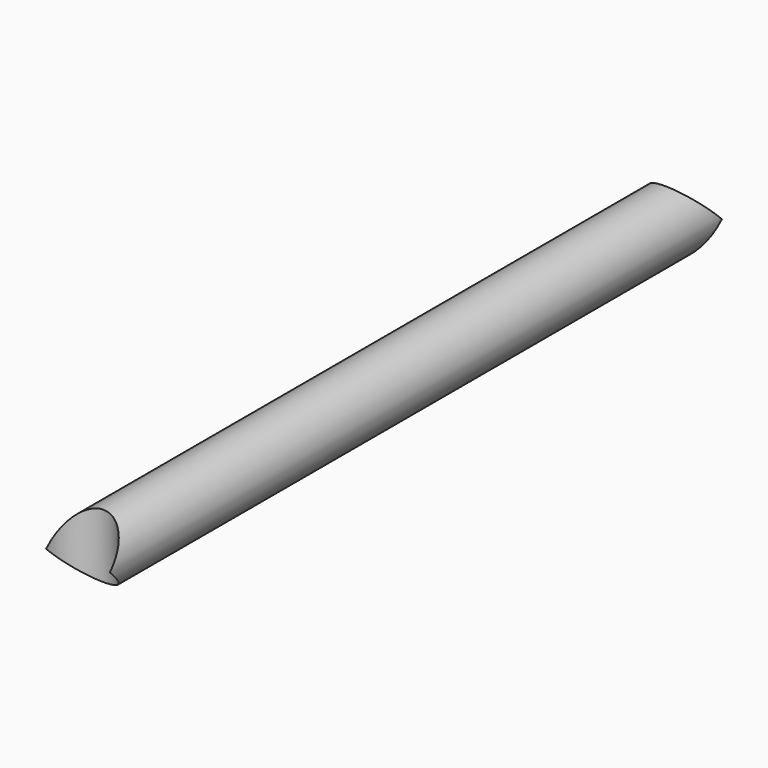
from build123d import *

# Parameters (mm, degrees)
F0_R          = 12.7
F1_DEPTH      = 304.8
F2_R          = 12.7
F3_DEPTH      = 12.701
F3_DEPTH_BACK = 12.701


with BuildPart() as f1:
    # F0 (on Front) → F1 (new body)
    with BuildSketch(Plane.XZ):
        Circle(F0_R)
    extrude(amount=F1_DEPTH)

    # F2 (on Top) → F3 (cut, two sides)
    with BuildSketch(Plane.XY) as f3_sk:
        Circle(F2_R)
        with Locations((0, -304.8)):
            Circle(F2_R)
    extrude(amount=-F3_DEPTH, mode=Mode.SUBTRACT)
    extrude(f3_sk.sketch, amount=F3_DEPTH_BACK, mode=Mode.SUBTRACT)


solid = f1.part
